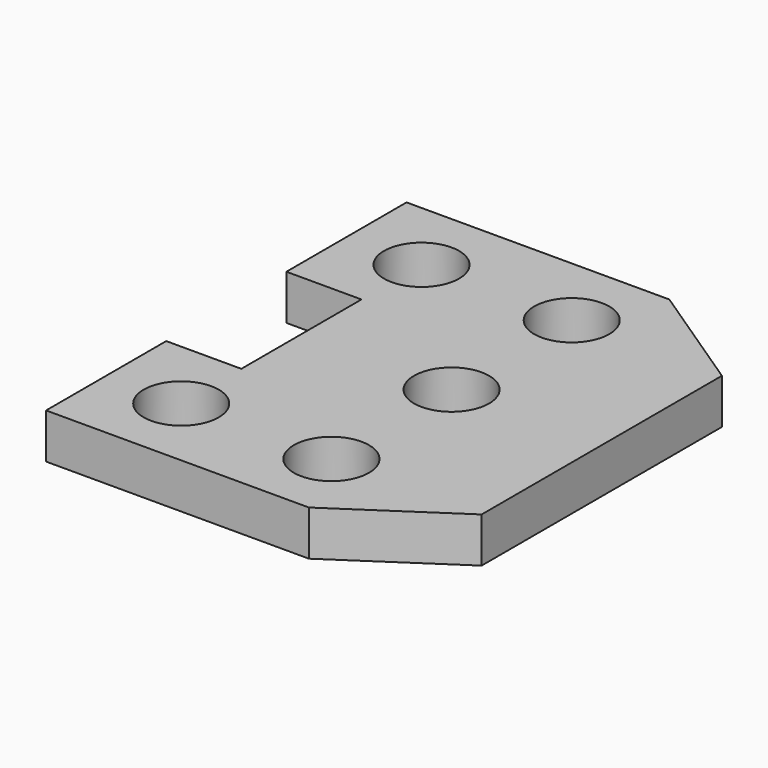
from build123d import *

# Parameters (mm, degrees)
F0_R     = 10
F1_DEPTH = 12


with BuildPart() as f1:
    # F0 (on Top) → F1 (new body)
    with BuildSketch(Plane.XY):
        Polygon((0, 40), (0, 0), (70, 0), (100, 20), (100, 100), (70, 120), (0, 120), (0, 80), (20, 80), (20, 40), align=None)
        with Locations((20, 20)):
            Circle(F0_R, mode=Mode.SUBTRACT)
        with Locations((60, 20)):
            Circle(F0_R, mode=Mode.SUBTRACT)
        with Locations((20, 100)):
            Circle(F0_R, mode=Mode.SUBTRACT)
        with Locations((60, 60)):
            Circle(F0_R, mode=Mode.SUBTRACT)
        with Locations((60, 100)):
            Circle(F0_R, mode=Mode.SUBTRACT)
    extrude(amount=F1_DEPTH)


solid = f1.part
